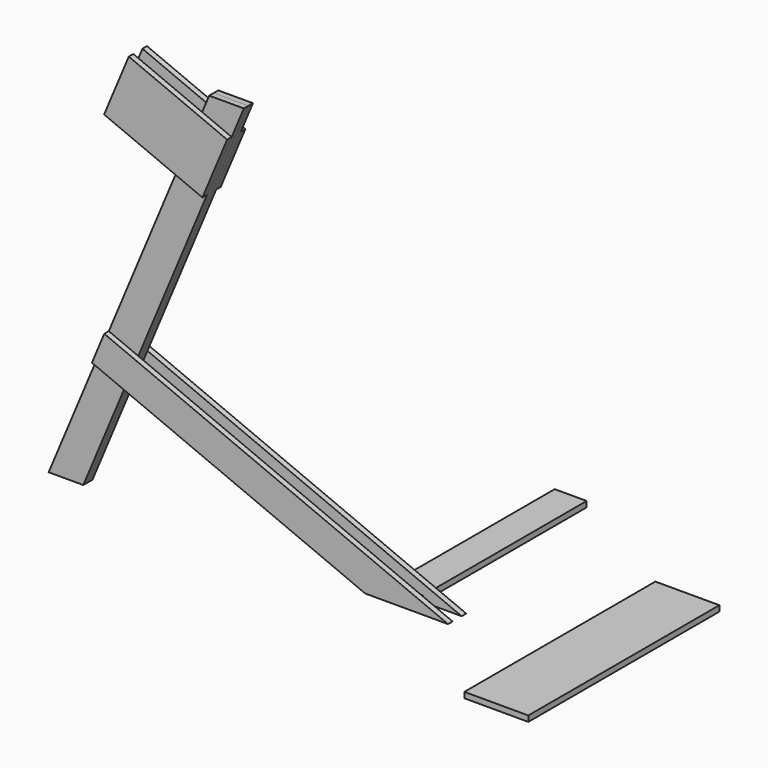
from build123d import *

# Parameters (mm, degrees)
F1_DEPTH  = 16
F3_DEPTH  = 16
F6_DEPTH  = 16
F10_W     = 90
F10_H     = 16
F11_DEPTH = 608
F12_W     = 180
F12_H     = 672
F13_DEPTH = 16


with BuildPart() as f1:
    # F0 (on Front) → F1 (new body)
    with BuildSketch(Plane.XZ):
        Polygon((-1198.911438, 1080), (-1650.685224, 0), (-1553.128277, 0), (-1101.35449, 1080), align=None)
    extrude(amount=F1_DEPTH)

    # F2 (on face) → F3 (join)
    with BuildSketch(Plane.XZ.offset(16)):
        Polygon((-1516.125781, 321.674703), (-747.137652, 0), (-513.920262, 0), (-1481.394237, 404.703131), align=None)
    extrude(amount=F3_DEPTH)

    # F5 (on face) → F6 (join)
    with BuildSketch(Plane.XZ.offset(16)):
        Polygon((-1481.856688, 947.771518), (-1205.095261, 831.999706), (-1135.632173, 998.056562), (-1412.3936, 1113.828375), align=None)
    extrude(amount=F6_DEPTH)


with BuildPart() as f7_1:
    # F7: copy of F1
    add(f1.part)


with BuildPart() as f8_1:
    # F8: instance of F7_1
    add(f7_1.part.mirror(Plane.XZ))


with BuildPart() as f11:
    # F10 (on face) → F11 (new body)
    with BuildSketch(Plane(origin=(0, -16, 0), x_dir=(-1, 0, 0), z_dir=(0, 1, 0))):
        with Locations((667.982655, 8)):
            Rectangle(F10_W, F10_H)
    extrude(amount=F11_DEPTH)


with BuildPart() as f13:
    # F12 (on Top) → F13 (new body)
    with BuildSketch(Plane.XY):
        with Locations((-175.374881, 50.673135)):
            Rectangle(F12_W, F12_H)
    extrude(amount=F13_DEPTH)


solid = Compound([f1.part, f8_1.part, f11.part, f13.part])
